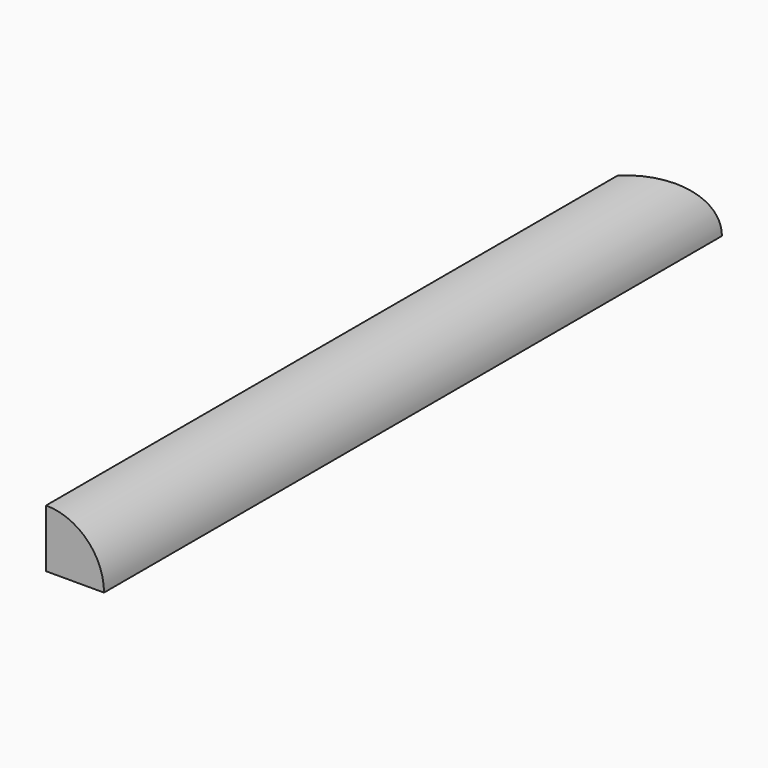
from build123d import *

# Parameters (mm, degrees)
F1_DEPTH = 254
F3_DEPTH = 25.4


with BuildPart() as f1:
    # F0 (on Front) → F1 (new body)
    with BuildSketch(Plane.XZ):
        with BuildLine():
            Line((0, 19.05), (0, 0))
            Line((0, 0), (19.05, 0))
            ThreePointArc((19.05, 0), (13.470384, 13.470384), (0, 19.05))
        make_face()
    extrude(amount=F1_DEPTH)

    # F2 (on face) → F3 (cut)
    with BuildSketch(Plane(origin=(0, 0, 0), x_dir=(1, 0, 0), z_dir=(0, 0, -1))):
        Polygon((0, 0), (19.05, 0), (0, 19.05), align=None)
    extrude(amount=-F3_DEPTH, mode=Mode.SUBTRACT)


solid = f1.part
